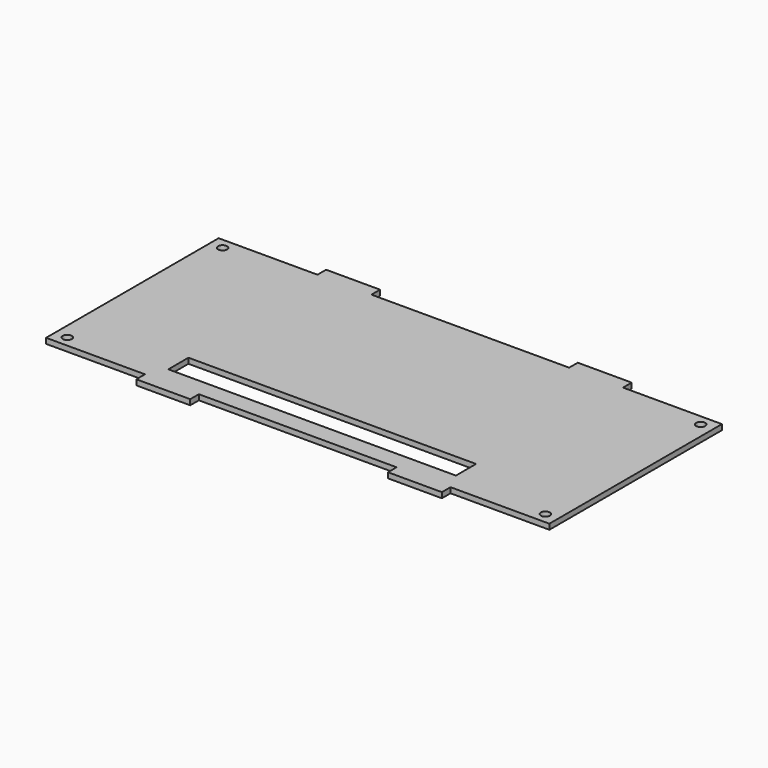
from build123d import *

# Parameters (mm, degrees)
F0_R     = 2.5
F1_DEPTH = 1.5


with BuildPart() as f1:
    # F0 (on Top) → F1 (new body, symmetric)
    with BuildSketch(Plane.XY):
        Polygon((140, -60), (140, 60), (85, 60), (85, 66), (55, 66), (55, 60), (-55, 60), (-55, 66), (-85, 66), (-85, 60), (-140, 60), (-140, -60), (-85, -60), (-85, -66), (-55, -66), (-55, -60), (55, -60), (55, -66), (85, -66), (85, -60), align=None)
        with Locations((-133, -54)):
            Circle(F0_R, mode=Mode.SUBTRACT)
        Polygon((15, -50), (0, -50), (-15, -50), (-80, -50), (-80, -36), (80, -36), (80, -50), align=None, mode=Mode.SUBTRACT)
        with Locations((133, -54)):
            Circle(F0_R, mode=Mode.SUBTRACT)
        with Locations((-133, 54)):
            Circle(F0_R, mode=Mode.SUBTRACT)
        with Locations((133, 54)):
            Circle(F0_R, mode=Mode.SUBTRACT)
    extrude(amount=F1_DEPTH, both=True)


solid = f1.part
